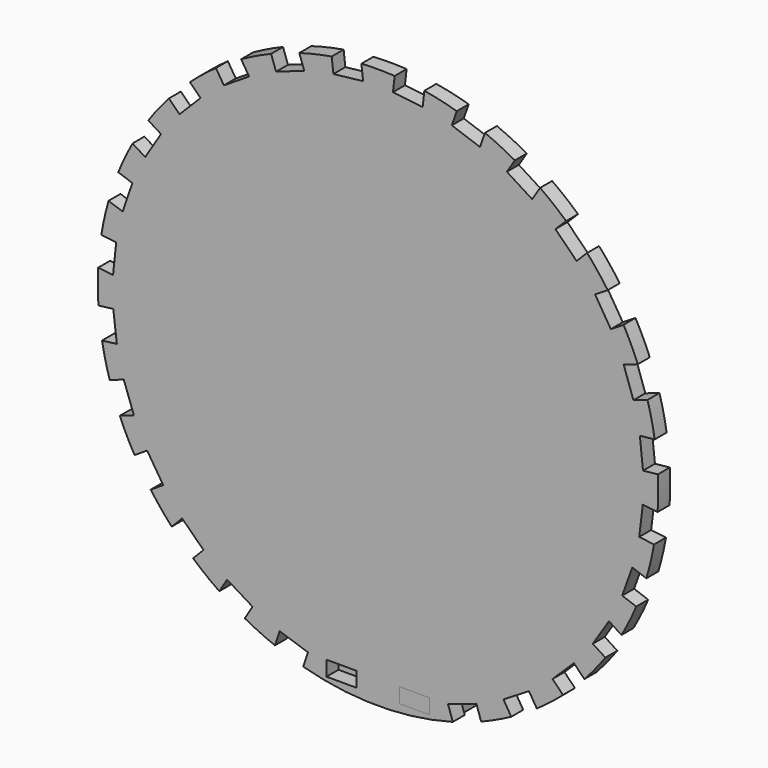
from build123d import *

# Parameters (mm, degrees)
F0_W     = 8
F0_H     = 4
F1_DEPTH = 4
F2_R     = 15
F3_DEPTH = 4


with BuildPart() as f1:
    # F0 (on Front) → F1 (new body)
    with BuildSketch(Plane.XZ):
        with BuildLine():
            Line((-18.739275, -68.488638), (-20.010588, -72.281231))
            ThreePointArc((-20.010588, -72.281231), (0, -75), (20.010588, -72.281231))
            Line((20.010588, -72.281231), (18.739275, -68.488638))
            Line((18.739275, -68.488638), (26.324462, -65.946013))
            Line((26.324462, -65.946013), (27.595775, -69.738606))
            ThreePointArc((27.595775, -69.738606), (31.684936, -67.978414), (35.662457, -65.978703))
            Line((35.662457, -65.978703), (33.575493, -62.566286))
            Line((33.575493, -62.566286), (40.400325, -58.39236))
            Line((40.400325, -58.39236), (42.487289, -61.804776))
            ThreePointArc((42.487289, -61.804776), (46.07948, -59.175008), (49.509311, -56.336738))
            Line((49.509311, -56.336738), (46.712326, -53.477215))
            Line((46.712326, -53.477215), (52.431373, -47.883244))
            Line((52.431373, -47.883244), (55.228358, -50.742768))
            ThreePointArc((55.228358, -50.742768), (58.141764, -47.376526), (60.85031, -43.843355))
            Line((60.85031, -43.843355), (57.484869, -41.681456))
            Line((57.484869, -41.681456), (61.808667, -34.950574))
            Line((61.808667, -34.950574), (65.174108, -37.112473))
            ThreePointArc((65.174108, -37.112473), (67.26127, -33.180137), (69.11144, -29.130892))
            Line((69.11144, -29.130892), (65.347881, -27.776039))
            Line((65.347881, -27.776039), (68.057587, -20.248921))
            Line((68.057587, -20.248921), (71.821146, -21.603774))
            ThreePointArc((71.821146, -21.603774), (72.976425, -17.304374), (73.874575, -12.944001))
            Line((73.874575, -12.944001), (69.903387, -12.464769))
            Line((69.903387, -12.464769), (70.861851, -4.522393))
            Line((70.861851, -4.522393), (74.833039, -5.001625))
            ThreePointArc((74.833039, -5.001625), (74.997963, -0.552769), (74.898634, 3.898034))
            Line((74.898634, 3.898034), (70.920813, 3.47739))
            Line((70.920813, 3.47739), (70.079524, 11.433032))
            Line((70.079524, 11.433032), (74.057345, 11.853676))
            ThreePointArc((74.057345, 11.853676), (73.223565, 16.226813), (72.131785, 20.542775))
            Line((72.131785, 20.542775), (68.348664, 19.243545))
            Line((68.348664, 19.243545), (65.750204, 26.809786))
            Line((65.750204, 26.809786), (69.533324, 28.109016))
            ThreePointArc((69.533324, 28.109016), (67.743042, 32.185094), (65.714069, 36.147768))
            Line((65.714069, 36.147768), (62.317127, 34.035711))
            Line((62.317127, 34.035711), (58.093013, 40.829595))
            Line((58.093013, 40.829595), (61.489955, 42.941652))
            ThreePointArc((61.489955, 42.941652), (58.833783, 46.514363), (55.970312, 49.923183))
            Line((55.970312, 49.923183), (53.131481, 47.105198))
            Line((53.131481, 47.105198), (47.495511, 52.78286))
            Line((47.495511, 52.78286), (50.334342, 55.600845))
            ThreePointArc((50.334342, 55.600845), (46.94672, 58.489362), (43.393682, 61.171794))
            Line((43.393682, 61.171794), (41.256646, 57.79051))
            Line((41.256646, 57.79051), (34.494079, 62.064583))
            Line((34.494079, 62.064583), (36.631116, 65.445866))
            ThreePointArc((36.631116, 65.445866), (32.683503, 67.50399), (28.620731, 69.324265))
            Line((28.620731, 69.324265), (27.293654, 65.550823))
            Line((27.293654, 65.550823), (19.74677, 68.204978))
            Line((19.74677, 68.204978), (21.073847, 71.97842))
            ThreePointArc((21.073847, 71.97842), (16.766049, 73.101981), (12.399175, 73.967969))
            Line((12.399175, 73.967969), (11.949225, 69.993357))
            Line((11.949225, 69.993357), (4, 70.893257))
            Line((4, 70.893257), (4.44995, 74.86787))
            ThreePointArc((4.44995, 74.86787), (0, 75), (-4.44995, 74.86787))
            Line((-4.44995, 74.86787), (-4, 70.893257))
            Line((-4, 70.893257), (-11.949225, 69.993357))
            Line((-11.949225, 69.993357), (-12.399175, 73.967969))
            ThreePointArc((-12.399175, 73.967969), (-16.766049, 73.101981), (-21.073847, 71.97842))
            Line((-21.073847, 71.97842), (-19.74677, 68.204978))
            Line((-19.74677, 68.204978), (-27.293654, 65.550823))
            Line((-27.293654, 65.550823), (-28.620731, 69.324265))
            ThreePointArc((-28.620731, 69.324265), (-32.683503, 67.50399), (-36.631116, 65.445866))
            Line((-36.631116, 65.445866), (-34.494079, 62.064583))
            Line((-34.494079, 62.064583), (-41.256646, 57.79051))
            Line((-41.256646, 57.79051), (-43.393682, 61.171794))
            ThreePointArc((-43.393682, 61.171794), (-46.94672, 58.489362), (-50.334342, 55.600845))
            Line((-50.334342, 55.600845), (-47.495511, 52.78286))
            Line((-47.495511, 52.78286), (-53.131481, 47.105198))
            Line((-53.131481, 47.105198), (-55.970312, 49.923183))
            ThreePointArc((-55.970312, 49.923183), (-58.833783, 46.514363), (-61.489955, 42.941652))
            Line((-61.489955, 42.941652), (-58.093013, 40.829595))
            Line((-58.093013, 40.829595), (-62.317127, 34.035711))
            Line((-62.317127, 34.035711), (-65.714069, 36.147768))
            ThreePointArc((-65.714069, 36.147768), (-67.743042, 32.185094), (-69.533324, 28.109016))
            Line((-69.533324, 28.109016), (-65.750204, 26.809786))
            Line((-65.750204, 26.809786), (-68.348664, 19.243545))
            Line((-68.348664, 19.243545), (-72.131785, 20.542775))
            ThreePointArc((-72.131785, 20.542775), (-73.223565, 16.226813), (-74.057345, 11.853676))
            Line((-74.057345, 11.853676), (-70.079524, 11.433032))
            Line((-70.079524, 11.433032), (-70.920813, 3.47739))
            Line((-70.920813, 3.47739), (-74.898634, 3.898034))
            ThreePointArc((-74.898634, 3.898034), (-74.997963, -0.552769), (-74.833039, -5.001625))
            Line((-74.833039, -5.001625), (-70.861851, -4.522393))
            Line((-70.861851, -4.522393), (-69.903387, -12.464769))
            Line((-69.903387, -12.464769), (-73.874575, -12.944001))
            ThreePointArc((-73.874575, -12.944001), (-72.976425, -17.304374), (-71.821146, -21.603774))
            Line((-71.821146, -21.603774), (-68.057587, -20.248921))
            Line((-68.057587, -20.248921), (-65.347881, -27.776039))
            Line((-65.347881, -27.776039), (-69.11144, -29.130892))
            ThreePointArc((-69.11144, -29.130892), (-67.26127, -33.180137), (-65.174108, -37.112473))
            Line((-65.174108, -37.112473), (-61.808667, -34.950574))
            Line((-61.808667, -34.950574), (-57.484869, -41.681456))
            Line((-57.484869, -41.681456), (-60.85031, -43.843355))
            ThreePointArc((-60.85031, -43.843355), (-58.141764, -47.376526), (-55.228358, -50.742768))
            Line((-55.228358, -50.742768), (-52.431373, -47.883244))
            Line((-52.431373, -47.883244), (-46.712326, -53.477215))
            Line((-46.712326, -53.477215), (-49.509311, -56.336738))
            ThreePointArc((-49.509311, -56.336738), (-46.07948, -59.175008), (-42.487289, -61.804776))
            Line((-42.487289, -61.804776), (-40.400325, -58.39236))
            Line((-40.400325, -58.39236), (-33.575493, -62.566286))
            Line((-33.575493, -62.566286), (-35.662457, -65.978703))
            ThreePointArc((-35.662457, -65.978703), (-31.684936, -67.978414), (-27.595775, -69.738606))
            Line((-27.595775, -69.738606), (-26.324462, -65.946013))
            Line((-26.324462, -65.946013), (-18.739275, -68.488638))
        make_face()
        with Locations((-9.780172, -70.610641)):
            Rectangle(F0_W, F0_H, mode=Mode.SUBTRACT)
        with Locations((9.780172, -70.610641)):
            Rectangle(F0_W, F0_H, mode=Mode.SUBTRACT)
    extrude(amount=F1_DEPTH)


with BuildPart() as f3:
    # F2 (on face) → F3 (new body)
    with BuildSketch(Plane(origin=(0, 0, -68.610641), x_dir=(1, 0, 0), z_dir=(0, 0, -1))):
        Polygon((5.780172, 0), (-5.780172, 0), (-13.780172, 0), (-18.780172, 0), (-18.780172, -36), (-13.780172, -36), (-13.780172, -40), (-5.780172, -40), (-5.780172, -36), (5.780172, -36), (5.780172, -40), (13.780172, -40), (13.780172, -36), (18.780172, -36), (18.780172, 0), (13.780172, 0), (13.780172, 4), (5.780172, 4), align=None)
        with Locations((0, -18)):
            Circle(F2_R, mode=Mode.SUBTRACT)
    extrude(amount=F3_DEPTH)


solid = Compound([f1.part, f3.part])
